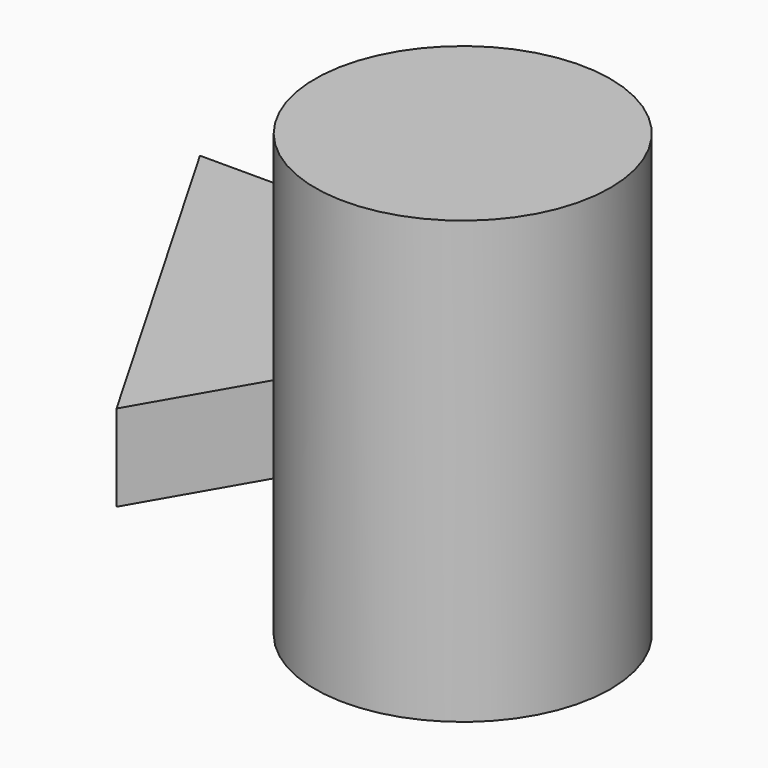
from build123d import *

# Parameters (mm, degrees)
F1_DEPTH = 25.4
F2_R     = 43.347372
F3_DEPTH = 129.575277


with BuildPart() as f1:
    # F0 (on Top) → F1 (new body)
    with BuildSketch(Plane.XY):
        Polygon((-63.5, 109.985226), (0, 0), (63.5, 109.985226), align=None)
    extrude(amount=F1_DEPTH)


with BuildPart() as f3:
    # F2 (on Top) → F3 (new body)
    with BuildSketch(Plane.XY):
        with Locations((101.641685, 0)):
            Circle(F2_R)
    extrude(amount=F3_DEPTH)


solid = Compound([f1.part, f3.part])
